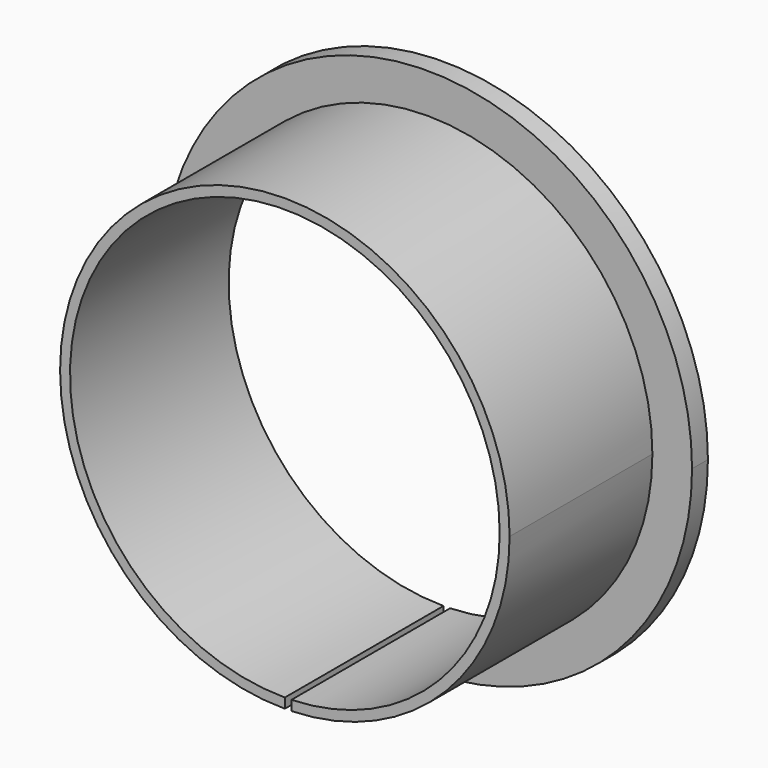
from build123d import *

# Parameters (mm, degrees)
F0_R     = 40
F0_R_2   = 34
F0_R_3   = 32.5
F1_DEPTH = 3
F2_R     = 34
F2_R_2   = 32.5
F3_DEPTH = 27
F4_W     = 1
F4_H     = 46
F5_DEPTH = 56.9


with BuildPart() as f1:
    # F0 (on Front) → F1 (new body)
    with BuildSketch(Plane.XZ):
        with Locations((-117.890202, 35.398554)):
            Circle(F0_R)
        with Locations((-117.890202, 35.398554)):
            Circle(F0_R_2, mode=Mode.SUBTRACT)
        with Locations((-117.890202, 35.398554)):
            Circle(F0_R_2)
        with Locations((-117.890202, 35.398554)):
            Circle(F0_R_3, mode=Mode.SUBTRACT)
    extrude(amount=F1_DEPTH)

    # F2 (on face) → F3 (join)
    with BuildSketch(Plane.XZ.offset(3)):
        with Locations((-117.890202, 35.398554)):
            Circle(F2_R)
        with Locations((-117.890202, 35.398554)):
            Circle(F2_R_2, mode=Mode.SUBTRACT)
    extrude(amount=F3_DEPTH)

    # F4 (on face) → F5 (cut)
    with BuildSketch(Plane.XZ.offset(30)):
        with Locations((-117.390202, 12.398554)):
            Rectangle(F4_W, F4_H)
    extrude(amount=-F5_DEPTH, mode=Mode.SUBTRACT)


solid = f1.part
